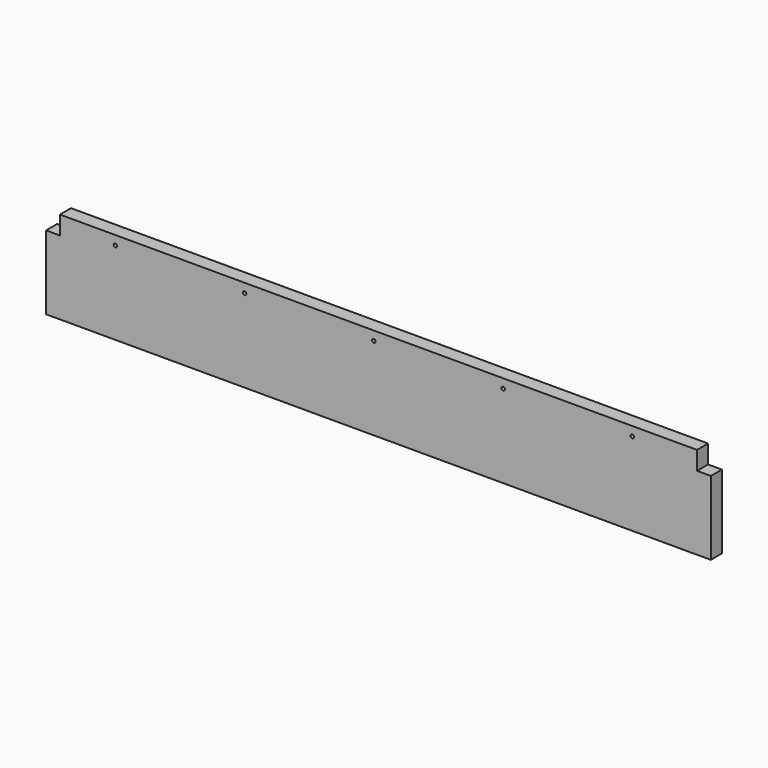
from build123d import *

# Parameters (mm, degrees)
F0_W     = 914.4
F0_H     = 127
F1_DEPTH = 19.05
F2_W     = 19.05
F2_H     = 25.4
F3_DEPTH = 19.051
F5_D     = 4.7625


with BuildPart() as f1:
    # F0 (on Front) → F1 (new body)
    with BuildSketch(Plane.XZ):
        Rectangle(F0_W, F0_H)
    extrude(amount=-F1_DEPTH)

    # F2 (on face) → F3 (cut, through all)
    with BuildSketch(Plane.XZ):
        with Locations((-447.675, 50.8)):
            Rectangle(F2_W, F2_H)
        with Locations((447.675, 50.8)):
            Rectangle(F2_W, F2_H)
    extrude(amount=-F3_DEPTH, mode=Mode.SUBTRACT)

    # F5 (through all)
    with Locations(Plane.XZ):
        with Locations((-361.95, 50.8), (-184.15, 50.8), (-6.35, 50.8), (171.45, 50.8), (349.25, 50.8)):
            Hole(F5_D / 2)


solid = f1.part
